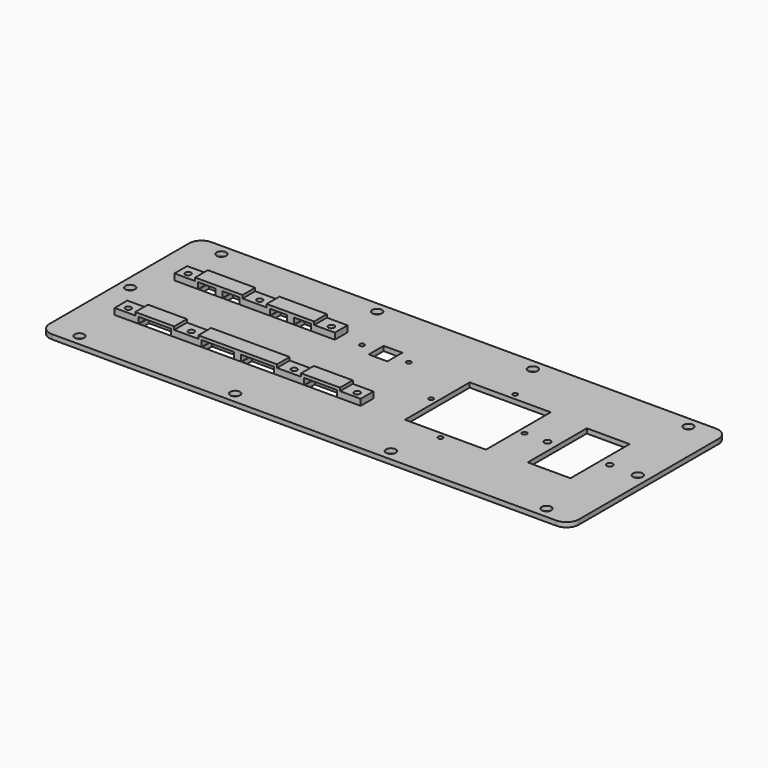
from build123d import *

# Parameters (mm, degrees)
F0_W      = 340
F0_H      = 128
F0_R      = 3.1
F1_DEPTH  = 3
F2_W      = 27.5
F2_H      = 47.5
F2_W_2    = 52
F2_H_2    = 52
F2_R      = 2
F2_R_2    = 1.5
F2_W_3    = 20.5
F2_H_3    = 8.2
F2_W_4    = 10.5
F2_W_5    = 12
F2_H_4    = 12
F3_DEPTH  = 3.001
F4_R      = 8
F6_R      = 1.9
F7_DEPTH  = 4
F8_W      = 25
F8_H      = 10.2
F8_W_2    = 50.5
F9_DEPTH  = 2
F10_R     = 1.9
F11_DEPTH = 4
F12_W     = 10.95
F12_H     = 8.2
F13_DEPTH = 2


with BuildPart() as f1:
    # F0 (on Top) → F1 (new body)
    with BuildSketch(Plane.XY):
        Rectangle(F0_W, F0_H)
        with Locations((-150, -57)):
            Circle(F0_R, mode=Mode.SUBTRACT)
        with Locations((-50, -57)):
            Circle(F0_R, mode=Mode.SUBTRACT)
        with Locations((50, -57)):
            Circle(F0_R, mode=Mode.SUBTRACT)
        with Locations((150, -57)):
            Circle(F0_R, mode=Mode.SUBTRACT)
        with Locations((-163, 0)):
            Circle(F0_R, mode=Mode.SUBTRACT)
        with Locations((-150, 57)):
            Circle(F0_R, mode=Mode.SUBTRACT)
        with Locations((-50, 57)):
            Circle(F0_R, mode=Mode.SUBTRACT)
        with Locations((163, 0)):
            Circle(F0_R, mode=Mode.SUBTRACT)
        with Locations((50, 57)):
            Circle(F0_R, mode=Mode.SUBTRACT)
        with Locations((150, 57)):
            Circle(F0_R, mode=Mode.SUBTRACT)
    extrude(amount=F1_DEPTH)

    # F2 (on face) → F3 (cut, through all)
    with BuildSketch(Plane.XY.offset(3)):
        with Locations((125, 0)):
            Rectangle(F2_W, F2_H)
        with Locations((60.25, 0)):
            Rectangle(F2_W_2, F2_H_2)
        with Locations((105, 0)):
            Circle(F2_R)
        with Locations((145, 0)):
            Circle(F2_R)
        with Locations((60.25, 30)):
            Circle(F2_R_2)
        with Locations((60.25, -30)):
            Circle(F2_R_2)
        with Locations((30.25, 0)):
            Circle(F2_R_2)
        with Locations((90.25, 0)):
            Circle(F2_R_2)
        with Locations((-124.75, -24)):
            Rectangle(F2_W_3, F2_H_3)
        with Locations((-84.25, -24)):
            Rectangle(F2_W_3, F2_H_3)
        with Locations((-58.75, -24)):
            Rectangle(F2_W_3, F2_H_3)
        with Locations((-18.25, -24)):
            Rectangle(F2_W_3, F2_H_3)
        with Locations((-104.5, -24)):
            Circle(F2_R_2)
        with Locations((-38.5, -24)):
            Circle(F2_R_2)
        with Locations((2, -24)):
            Circle(F2_R_2)
        with Locations((-145, -24)):
            Circle(F2_R_2)
        with Locations((-129.75, 24)):
            Rectangle(F2_W_4, F2_H_3)
        with Locations((-114.25, 24)):
            Rectangle(F2_W_4, F2_H_3)
        with Locations((-83.75, 24)):
            Rectangle(F2_W_4, F2_H_3)
        with Locations((-68.25, 24)):
            Rectangle(F2_W_4, F2_H_3)
        with Locations((-145, 24)):
            Circle(F2_R_2)
        with Locations((-99, 24)):
            Circle(F2_R_2)
        with Locations((-53, 24)):
            Circle(F2_R_2)
        with Locations((-18.25, 24)):
            Rectangle(F2_W_5, F2_H_4)
        with Locations((-33.25, 24)):
            Circle(F2_R_2)
        with Locations((-3.25, 24)):
            Circle(F2_R_2)
    extrude(amount=-F3_DEPTH, mode=Mode.SUBTRACT)

    # F4
    f4_edges = [f1.edges().sort_by_distance(p)[0] for p in [
        (170, -64, 1.5),
        (170, 64, 1.5),
        (-170, -64, 1.5),
        (-170, 64, 1.5),
    ]]
    fillet(f4_edges, radius=F4_R)


with BuildPart() as f7:
    # F6 (on face) → F7 (new body)
    with BuildSketch(Plane.XY.offset(3)):
        Polygon((7.5, -17.9), (-150.5, -17.9), (-150.5, -28.1), (-135.25, -28.1), (-135.25, -19.9), (-135, -19.9), (-114.5, -19.9), (-114.25, -19.9), (-114.25, -28.1), (-94.75, -28.1), (-94.75, -19.9), (-94.5, -19.9), (-74, -19.9), (-73.75, -19.9), (-73.75, -28.1), (-69.25, -28.1), (-69.25, -19.9), (-69, -19.9), (-48.5, -19.9), (-48.25, -19.9), (-48.25, -28.1), (-28.75, -28.1), (-28.75, -19.9), (-28.5, -19.9), (-8, -19.9), (-7.75, -19.9), (-7.75, -28.1), (7.5, -28.1), align=None)
        with Locations((-145, -24)):
            Circle(F6_R, mode=Mode.SUBTRACT)
        with Locations((-104.5, -24)):
            Circle(F6_R, mode=Mode.SUBTRACT)
        with Locations((-38.5, -24)):
            Circle(F6_R, mode=Mode.SUBTRACT)
        with Locations((2, -24)):
            Circle(F6_R, mode=Mode.SUBTRACT)
    extrude(amount=F7_DEPTH)

    # F8 (on face) → F9 (join)
    with BuildSketch(Plane.XY.offset(7)):
        with Locations((-124.75, -23)):
            Rectangle(F8_W, F8_H)
        with Locations((-124.75, -23)):
            Rectangle(F8_W, F8_H)
        with Locations((-71.5, -23)):
            Rectangle(F8_W_2, F8_H)
        with Locations((-71.5, -23)):
            Rectangle(F8_W_2, F8_H)
        with Locations((-71.5, -23)):
            Rectangle(F8_W_2, F8_H)
        with Locations((-18.25, -23)):
            Rectangle(F8_W, F8_H)
        with Locations((-18.25, -23)):
            Rectangle(F8_W, F8_H)
        Polygon((-112.25, -17.9), (-137.25, -17.9), (-137.25, -28.1), (-135.25, -28.1), (-112.25, -28.1), align=None)
        Polygon((-46.25, -17.9), (-96.75, -17.9), (-96.75, -28.1), (-94.75, -28.1), (-46.25, -28.1), align=None)
        Polygon((-46.25, -17.9), (-96.75, -17.9), (-96.75, -28.1), (-94.75, -28.1), (-69.25, -28.1), (-46.25, -28.1), align=None)
        Polygon((-5.75, -17.9), (-30.75, -17.9), (-30.75, -28.1), (-28.75, -28.1), (-5.75, -28.1), align=None)
    extrude(amount=F9_DEPTH)


with BuildPart() as f11:
    # F10 (on face) → F11 (new body)
    with BuildSketch(Plane.XY.offset(3)):
        Polygon((-47.5, 30.1), (-150.5, 30.1), (-150.5, 19.9), (-135.225, 19.9), (-135.225, 28.1), (-135, 28.1), (-124.5, 28.1), (-124.275, 28.1), (-124.275, 19.9), (-119.725, 19.9), (-119.725, 28.1), (-119.5, 28.1), (-109, 28.1), (-108.775, 28.1), (-108.775, 19.9), (-89.225, 19.9), (-89.225, 28.1), (-89, 28.1), (-78.5, 28.1), (-78.275, 28.1), (-78.275, 19.9), (-73.725, 19.9), (-73.725, 28.1), (-73.5, 28.1), (-63, 28.1), (-62.775, 28.1), (-62.775, 19.9), (-47.5, 19.9), align=None)
        with Locations((-145, 24)):
            Circle(F10_R, mode=Mode.SUBTRACT)
        with Locations((-99, 24)):
            Circle(F10_R, mode=Mode.SUBTRACT)
        with Locations((-53, 24)):
            Circle(F10_R, mode=Mode.SUBTRACT)
    extrude(amount=F11_DEPTH)

    # F12 (on face) → F13 (join)
    with BuildSketch(Plane.XY.offset(7)):
        Polygon((-106.775, 30.1), (-137.225, 30.1), (-137.225, 19.9), (-135.225, 19.9), (-135.225, 28.1), (-124.275, 28.1), (-124.275, 19.9), (-119.725, 19.9), (-119.725, 28.1), (-108.775, 28.1), (-108.775, 19.9), (-106.775, 19.9), align=None)
        with Locations((-129.75, 24)):
            Rectangle(F12_W, F12_H)
        with Locations((-114.25, 24)):
            Rectangle(F12_W, F12_H)
        Polygon((-60.775, 30.1), (-91.225, 30.1), (-91.225, 19.9), (-89.225, 19.9), (-89.225, 28.1), (-78.275, 28.1), (-78.275, 19.9), (-73.725, 19.9), (-73.725, 28.1), (-62.775, 28.1), (-62.775, 19.9), (-60.775, 19.9), align=None)
        with Locations((-83.75, 24)):
            Rectangle(F12_W, F12_H)
        with Locations((-68.25, 24)):
            Rectangle(F12_W, F12_H)
    extrude(amount=F13_DEPTH)


solid = Compound([f1.part, f7.part, f11.part])
